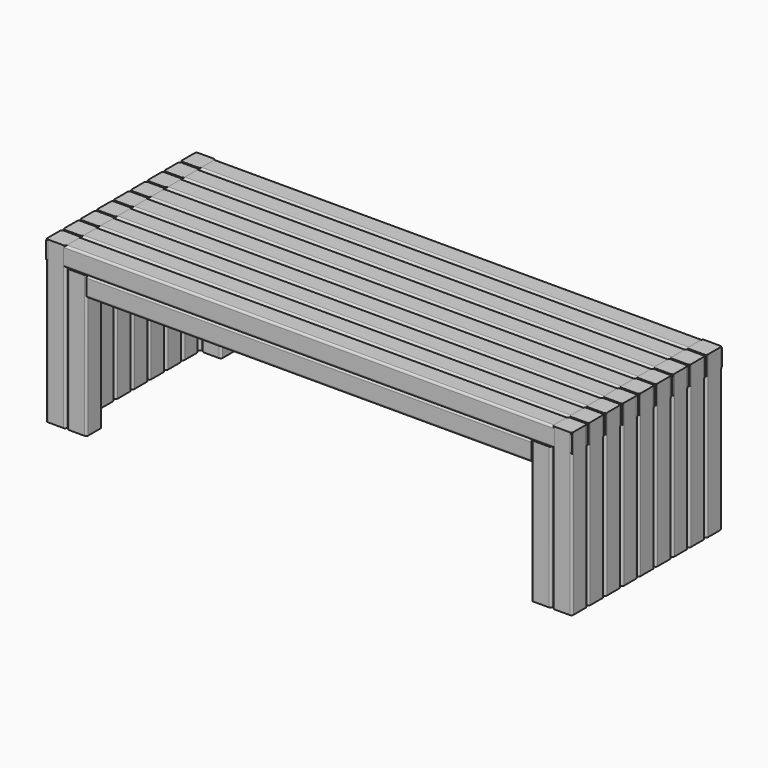
from build123d import *

# Parameters (mm, degrees)
F1_DEPTH      = 1300
F3_DEPTH      = 48
F3_DEPTH_BACK = 350
F5_DEPTH      = 350
F8_DEPTH      = 1100


with BuildPart() as f1:
    # F0 (on Right) → F1 (new body)
    with BuildSketch(Plane.YZ):
        with BuildLine():
            ThreePointArc((0, 5), (1.4644660941, 1.4644660941), (5, 0))
            Line((5, 0), (43, 0))
            ThreePointArc((43, 0), (46.5355339059, 1.4644660941), (48, 5))
            Line((48, 5), (48, 43))
            ThreePointArc((48, 43), (46.5355339059, 46.5355339059), (43, 48))
            Line((43, 48), (5, 48))
            ThreePointArc((5, 48), (1.4644660941, 46.5355339059), (0, 43))
            Line((0, 43), (0, 5))
        make_face()
    extrude(amount=F1_DEPTH)


with BuildPart() as f1b:
    # F0 (on Right) → F1, piece 2 (new body)
    with BuildSketch(Plane.YZ):
        with BuildLine():
            ThreePointArc((95, 0), (98.5355339059, 1.4644660941), (100, 5))
            Line((100, 5), (100, 43))
            ThreePointArc((100, 43), (98.5355339059, 46.5355339059), (95, 48))
            Line((95, 48), (57, 48))
            ThreePointArc((57, 48), (53.4644660941, 46.5355339059), (52, 43))
            Line((52, 43), (52, 5))
            ThreePointArc((52, 5), (53.4644660941, 1.4644660941), (57, 0))
            Line((57, 0), (95, 0))
        make_face()
    extrude(amount=F1_DEPTH)


with BuildPart() as f1c:
    # F0 (on Right) → F1, piece 3 (new body)
    with BuildSketch(Plane.YZ):
        with BuildLine():
            ThreePointArc((147, 0), (150.5355339059, 1.4644660941), (152, 5))
            Line((152, 5), (152, 43))
            ThreePointArc((152, 43), (150.5355339059, 46.5355339059), (147, 48))
            Line((147, 48), (109, 48))
            ThreePointArc((109, 48), (105.4644660941, 46.5355339059), (104, 43))
            Line((104, 43), (104, 5))
            ThreePointArc((104, 5), (105.4644660941, 1.4644660941), (109, 0))
            Line((109, 0), (147, 0))
        make_face()
    extrude(amount=F1_DEPTH)


with BuildPart() as f1d:
    # F0 (on Right) → F1, piece 4 (new body)
    with BuildSketch(Plane.YZ):
        with BuildLine():
            ThreePointArc((199, 0), (202.5355339059, 1.4644660941), (204, 5))
            Line((204, 5), (204, 43))
            ThreePointArc((204, 43), (202.5355339059, 46.5355339059), (199, 48))
            Line((199, 48), (161, 48))
            ThreePointArc((161, 48), (157.4644660941, 46.5355339059), (156, 43))
            Line((156, 43), (156, 5))
            ThreePointArc((156, 5), (157.4644660941, 1.4644660941), (161, 0))
            Line((161, 0), (199, 0))
        make_face()
    extrude(amount=F1_DEPTH)


with BuildPart() as f1e:
    # F0 (on Right) → F1, piece 5 (new body)
    with BuildSketch(Plane.YZ):
        with BuildLine():
            ThreePointArc((251, 0), (254.5355339059, 1.4644660941), (256, 5))
            Line((256, 5), (256, 43))
            ThreePointArc((256, 43), (254.5355339059, 46.5355339059), (251, 48))
            Line((251, 48), (213, 48))
            ThreePointArc((213, 48), (209.4644660941, 46.5355339059), (208, 43))
            Line((208, 43), (208, 5))
            ThreePointArc((208, 5), (209.4644660941, 1.4644660941), (213, 0))
            Line((213, 0), (251, 0))
        make_face()
    extrude(amount=F1_DEPTH)


with BuildPart() as f1f:
    # F0 (on Right) → F1, piece 6 (new body)
    with BuildSketch(Plane.YZ):
        with BuildLine():
            ThreePointArc((303, 0), (306.5355339059, 1.4644660941), (308, 5))
            Line((308, 5), (308, 43))
            ThreePointArc((308, 43), (306.5355339059, 46.5355339059), (303, 48))
            Line((303, 48), (265, 48))
            ThreePointArc((265, 48), (261.4644660941, 46.5355339059), (260, 43))
            Line((260, 43), (260, 5))
            ThreePointArc((260, 5), (261.4644660941, 1.4644660941), (265, 0))
            Line((265, 0), (303, 0))
        make_face()
    extrude(amount=F1_DEPTH)


with BuildPart() as f1g:
    # F0 (on Right) → F1, piece 7 (new body)
    with BuildSketch(Plane.YZ):
        with BuildLine():
            ThreePointArc((355, 0), (358.5355339059, 1.4644660941), (360, 5))
            Line((360, 5), (360, 43))
            ThreePointArc((360, 43), (358.5355339059, 46.5355339059), (355, 48))
            Line((355, 48), (317, 48))
            ThreePointArc((317, 48), (313.4644660941, 46.5355339059), (312, 43))
            Line((312, 43), (312, 5))
            ThreePointArc((312, 5), (313.4644660941, 1.4644660941), (317, 0))
            Line((317, 0), (355, 0))
        make_face()
    extrude(amount=F1_DEPTH)


with BuildPart() as f1h:
    # F0 (on Right) → F1, piece 8 (new body)
    with BuildSketch(Plane.YZ):
        with BuildLine():
            ThreePointArc((407, 0), (410.5355339059, 1.4644660941), (412, 5))
            Line((412, 5), (412, 43))
            ThreePointArc((412, 43), (410.5355339059, 46.5355339059), (407, 48))
            Line((407, 48), (369, 48))
            ThreePointArc((369, 48), (365.4644660941, 46.5355339059), (364, 43))
            Line((364, 43), (364, 5))
            ThreePointArc((364, 5), (365.4644660941, 1.4644660941), (369, 0))
            Line((369, 0), (407, 0))
        make_face()
    extrude(amount=F1_DEPTH)


with BuildPart() as f1i:
    # F0 (on Right) → F1, piece 9 (new body)
    with BuildSketch(Plane.YZ):
        with BuildLine():
            ThreePointArc((459, 0), (462.5355339059, 1.4644660941), (464, 5))
            Line((464, 5), (464, 43))
            ThreePointArc((464, 43), (462.5355339059, 46.5355339059), (459, 48))
            Line((459, 48), (421, 48))
            ThreePointArc((421, 48), (417.4644660941, 46.5355339059), (416, 43))
            Line((416, 43), (416, 5))
            ThreePointArc((416, 5), (417.4644660941, 1.4644660941), (421, 0))
            Line((421, 0), (459, 0))
        make_face()
    extrude(amount=F1_DEPTH)


with BuildPart() as f3:
    # F2 (on Top) → F3 (new body, two sides)
    with BuildSketch(Plane.XY) as f3_sk:
        with BuildLine():
            ThreePointArc((0, 5), (1.4644660941, 1.4644660941), (5, 0))
            Line((5, 0), (43, 0))
            ThreePointArc((43, 0), (46.5355339059, 1.4644660941), (48, 5))
            Line((48, 5), (48, 43))
            ThreePointArc((48, 43), (46.5355339059, 46.5355339059), (43, 48))
            Line((43, 48), (5, 48))
            ThreePointArc((5, 48), (1.4644660941, 46.5355339059), (0, 43))
            Line((0, 43), (0, 5))
        make_face()
    extrude(amount=F3_DEPTH)
    extrude(f3_sk.sketch, amount=-F3_DEPTH_BACK)


with BuildPart() as f3b:
    # F2 (on Top) → F3, piece 2 (new body, two sides)
    with BuildSketch(Plane.XY) as f3_2_sk:
        with BuildLine():
            ThreePointArc((0, 57), (1.4644660941, 53.4644660941), (5, 52))
            Line((5, 52), (43, 52))
            ThreePointArc((43, 52), (46.5355339059, 53.4644660941), (48, 57))
            Line((48, 57), (48, 95))
            ThreePointArc((48, 95), (46.5355339059, 98.5355339059), (43, 100))
            Line((43, 100), (5, 100))
            ThreePointArc((5, 100), (1.4644660941, 98.5355339059), (0, 95))
            Line((0, 95), (0, 57))
        make_face()
    extrude(amount=F3_DEPTH)
    extrude(f3_2_sk.sketch, amount=-F3_DEPTH_BACK)


with BuildPart() as f3c:
    # F2 (on Top) → F3, piece 3 (new body, two sides)
    with BuildSketch(Plane.XY) as f3_3_sk:
        with BuildLine():
            ThreePointArc((0, 109), (1.4644660941, 105.4644660941), (5, 104))
            Line((5, 104), (43, 104))
            ThreePointArc((43, 104), (46.5355339059, 105.4644660941), (48, 109))
            Line((48, 109), (48, 147))
            ThreePointArc((48, 147), (46.5355339059, 150.5355339059), (43, 152))
            Line((43, 152), (5, 152))
            ThreePointArc((5, 152), (1.4644660941, 150.5355339059), (0, 147))
            Line((0, 147), (0, 109))
        make_face()
    extrude(amount=F3_DEPTH)
    extrude(f3_3_sk.sketch, amount=-F3_DEPTH_BACK)


with BuildPart() as f3d:
    # F2 (on Top) → F3, piece 4 (new body, two sides)
    with BuildSketch(Plane.XY) as f3_4_sk:
        with BuildLine():
            ThreePointArc((0, 161), (1.4644660941, 157.4644660941), (5, 156))
            Line((5, 156), (43, 156))
            ThreePointArc((43, 156), (46.5355339059, 157.4644660941), (48, 161))
            Line((48, 161), (48, 199))
            ThreePointArc((48, 199), (46.5355339059, 202.5355339059), (43, 204))
            Line((43, 204), (5, 204))
            ThreePointArc((5, 204), (1.4644660941, 202.5355339059), (0, 199))
            Line((0, 199), (0, 161))
        make_face()
    extrude(amount=F3_DEPTH)
    extrude(f3_4_sk.sketch, amount=-F3_DEPTH_BACK)


with BuildPart() as f3e:
    # F2 (on Top) → F3, piece 5 (new body, two sides)
    with BuildSketch(Plane.XY) as f3_5_sk:
        with BuildLine():
            ThreePointArc((0, 213), (1.4644660941, 209.4644660941), (5, 208))
            Line((5, 208), (43, 208))
            ThreePointArc((43, 208), (46.5355339059, 209.4644660941), (48, 213))
            Line((48, 213), (48, 251))
            ThreePointArc((48, 251), (46.5355339059, 254.5355339059), (43, 256))
            Line((43, 256), (5, 256))
            ThreePointArc((5, 256), (1.4644660941, 254.5355339059), (0, 251))
            Line((0, 251), (0, 213))
        make_face()
    extrude(amount=F3_DEPTH)
    extrude(f3_5_sk.sketch, amount=-F3_DEPTH_BACK)


with BuildPart() as f3f:
    # F2 (on Top) → F3, piece 6 (new body, two sides)
    with BuildSketch(Plane.XY) as f3_6_sk:
        with BuildLine():
            ThreePointArc((0, 265), (1.4644660941, 261.4644660941), (5, 260))
            Line((5, 260), (43, 260))
            ThreePointArc((43, 260), (46.5355339059, 261.4644660941), (48, 265))
            Line((48, 265), (48, 303))
            ThreePointArc((48, 303), (46.5355339059, 306.5355339059), (43, 308))
            Line((43, 308), (5, 308))
            ThreePointArc((5, 308), (1.4644660941, 306.5355339059), (0, 303))
            Line((0, 303), (0, 265))
        make_face()
    extrude(amount=F3_DEPTH)
    extrude(f3_6_sk.sketch, amount=-F3_DEPTH_BACK)


with BuildPart() as f3g:
    # F2 (on Top) → F3, piece 7 (new body, two sides)
    with BuildSketch(Plane.XY) as f3_7_sk:
        with BuildLine():
            ThreePointArc((0, 317), (1.4644660941, 313.4644660941), (5, 312))
            Line((5, 312), (43, 312))
            ThreePointArc((43, 312), (46.5355339059, 313.4644660941), (48, 317))
            Line((48, 317), (48, 355))
            ThreePointArc((48, 355), (46.5355339059, 358.5355339059), (43, 360))
            Line((43, 360), (5, 360))
            ThreePointArc((5, 360), (1.4644660941, 358.5355339059), (0, 355))
            Line((0, 355), (0, 317))
        make_face()
    extrude(amount=F3_DEPTH)
    extrude(f3_7_sk.sketch, amount=-F3_DEPTH_BACK)


with BuildPart() as f3h:
    # F2 (on Top) → F3, piece 8 (new body, two sides)
    with BuildSketch(Plane.XY) as f3_8_sk:
        with BuildLine():
            ThreePointArc((0, 369), (1.4644660941, 365.4644660941), (5, 364))
            Line((5, 364), (43, 364))
            ThreePointArc((43, 364), (46.5355339059, 365.4644660941), (48, 369))
            Line((48, 369), (48, 407))
            ThreePointArc((48, 407), (46.5355339059, 410.5355339059), (43, 412))
            Line((43, 412), (5, 412))
            ThreePointArc((5, 412), (1.4644660941, 410.5355339059), (0, 407))
            Line((0, 407), (0, 369))
        make_face()
    extrude(amount=F3_DEPTH)
    extrude(f3_8_sk.sketch, amount=-F3_DEPTH_BACK)


with BuildPart() as f3i:
    # F2 (on Top) → F3, piece 9 (new body, two sides)
    with BuildSketch(Plane.XY) as f3_9_sk:
        with BuildLine():
            ThreePointArc((0, 421), (1.4644660941, 417.4644660941), (5, 416))
            Line((5, 416), (43, 416))
            ThreePointArc((43, 416), (46.5355339059, 417.4644660941), (48, 421))
            Line((48, 421), (48, 459))
            ThreePointArc((48, 459), (46.5355339059, 462.5355339059), (43, 464))
            Line((43, 464), (5, 464))
            ThreePointArc((5, 464), (1.4644660941, 462.5355339059), (0, 459))
            Line((0, 459), (0, 421))
        make_face()
    extrude(amount=F3_DEPTH)
    extrude(f3_9_sk.sketch, amount=-F3_DEPTH_BACK)


with BuildPart() as f3j:
    # F2 (on Top) → F3, piece 10 (new body, two sides)
    with BuildSketch(Plane.XY) as f3_10_sk:
        with BuildLine():
            ThreePointArc((1252, 5), (1253.4644660941, 1.4644660941), (1257, 0))
            Line((1257, 0), (1295, 0))
            ThreePointArc((1295, 0), (1298.5355339059, 1.4644660941), (1300, 5))
            Line((1300, 5), (1300, 43))
            ThreePointArc((1300, 43), (1298.5355339059, 46.5355339059), (1295, 48))
            Line((1295, 48), (1257, 48))
            ThreePointArc((1257, 48), (1253.4644660941, 46.5355339059), (1252, 43))
            Line((1252, 43), (1252, 5))
        make_face()
    extrude(amount=F3_DEPTH)
    extrude(f3_10_sk.sketch, amount=-F3_DEPTH_BACK)


with BuildPart() as f3k:
    # F2 (on Top) → F3, piece 11 (new body, two sides)
    with BuildSketch(Plane.XY) as f3_11_sk:
        with BuildLine():
            ThreePointArc((1252, 57), (1253.4644660941, 53.4644660941), (1257, 52))
            Line((1257, 52), (1295, 52))
            ThreePointArc((1295, 52), (1298.5355339059, 53.4644660941), (1300, 57))
            Line((1300, 57), (1300, 95))
            ThreePointArc((1300, 95), (1298.5355339059, 98.5355339059), (1295, 100))
            Line((1295, 100), (1257, 100))
            ThreePointArc((1257, 100), (1253.4644660941, 98.5355339059), (1252, 95))
            Line((1252, 95), (1252, 57))
        make_face()
    extrude(amount=F3_DEPTH)
    extrude(f3_11_sk.sketch, amount=-F3_DEPTH_BACK)


with BuildPart() as f3l:
    # F2 (on Top) → F3, piece 12 (new body, two sides)
    with BuildSketch(Plane.XY) as f3_12_sk:
        with BuildLine():
            ThreePointArc((1252, 109), (1253.4644660941, 105.4644660941), (1257, 104))
            Line((1257, 104), (1295, 104))
            ThreePointArc((1295, 104), (1298.5355339059, 105.4644660941), (1300, 109))
            Line((1300, 109), (1300, 147))
            ThreePointArc((1300, 147), (1298.5355339059, 150.5355339059), (1295, 152))
            Line((1295, 152), (1257, 152))
            ThreePointArc((1257, 152), (1253.4644660941, 150.5355339059), (1252, 147))
            Line((1252, 147), (1252, 109))
        make_face()
    extrude(amount=F3_DEPTH)
    extrude(f3_12_sk.sketch, amount=-F3_DEPTH_BACK)


with BuildPart() as f3m:
    # F2 (on Top) → F3, piece 13 (new body, two sides)
    with BuildSketch(Plane.XY) as f3_13_sk:
        with BuildLine():
            ThreePointArc((1252, 161), (1253.4644660941, 157.4644660941), (1257, 156))
            Line((1257, 156), (1295, 156))
            ThreePointArc((1295, 156), (1298.5355339059, 157.4644660941), (1300, 161))
            Line((1300, 161), (1300, 199))
            ThreePointArc((1300, 199), (1298.5355339059, 202.5355339059), (1295, 204))
            Line((1295, 204), (1257, 204))
            ThreePointArc((1257, 204), (1253.4644660941, 202.5355339059), (1252, 199))
            Line((1252, 199), (1252, 161))
        make_face()
    extrude(amount=F3_DEPTH)
    extrude(f3_13_sk.sketch, amount=-F3_DEPTH_BACK)


with BuildPart() as f3n:
    # F2 (on Top) → F3, piece 14 (new body, two sides)
    with BuildSketch(Plane.XY) as f3_14_sk:
        with BuildLine():
            ThreePointArc((1252, 213), (1253.4644660941, 209.4644660941), (1257, 208))
            Line((1257, 208), (1295, 208))
            ThreePointArc((1295, 208), (1298.5355339059, 209.4644660941), (1300, 213))
            Line((1300, 213), (1300, 251))
            ThreePointArc((1300, 251), (1298.5355339059, 254.5355339059), (1295, 256))
            Line((1295, 256), (1257, 256))
            ThreePointArc((1257, 256), (1253.4644660941, 254.5355339059), (1252, 251))
            Line((1252, 251), (1252, 213))
        make_face()
    extrude(amount=F3_DEPTH)
    extrude(f3_14_sk.sketch, amount=-F3_DEPTH_BACK)


with BuildPart() as f3o:
    # F2 (on Top) → F3, piece 15 (new body, two sides)
    with BuildSketch(Plane.XY) as f3_15_sk:
        with BuildLine():
            ThreePointArc((1252, 265), (1253.4644660941, 261.4644660941), (1257, 260))
            Line((1257, 260), (1295, 260))
            ThreePointArc((1295, 260), (1298.5355339059, 261.4644660941), (1300, 265))
            Line((1300, 265), (1300, 303))
            ThreePointArc((1300, 303), (1298.5355339059, 306.5355339059), (1295, 308))
            Line((1295, 308), (1257, 308))
            ThreePointArc((1257, 308), (1253.4644660941, 306.5355339059), (1252, 303))
            Line((1252, 303), (1252, 265))
        make_face()
    extrude(amount=F3_DEPTH)
    extrude(f3_15_sk.sketch, amount=-F3_DEPTH_BACK)


with BuildPart() as f3p:
    # F2 (on Top) → F3, piece 16 (new body, two sides)
    with BuildSketch(Plane.XY) as f3_16_sk:
        with BuildLine():
            ThreePointArc((1252, 317), (1253.4644660941, 313.4644660941), (1257, 312))
            Line((1257, 312), (1295, 312))
            ThreePointArc((1295, 312), (1298.5355339059, 313.4644660941), (1300, 317))
            Line((1300, 317), (1300, 355))
            ThreePointArc((1300, 355), (1298.5355339059, 358.5355339059), (1295, 360))
            Line((1295, 360), (1257, 360))
            ThreePointArc((1257, 360), (1253.4644660941, 358.5355339059), (1252, 355))
            Line((1252, 355), (1252, 317))
        make_face()
    extrude(amount=F3_DEPTH)
    extrude(f3_16_sk.sketch, amount=-F3_DEPTH_BACK)


with BuildPart() as f3q:
    # F2 (on Top) → F3, piece 17 (new body, two sides)
    with BuildSketch(Plane.XY) as f3_17_sk:
        with BuildLine():
            ThreePointArc((1252, 369), (1253.4644660941, 365.4644660941), (1257, 364))
            Line((1257, 364), (1295, 364))
            ThreePointArc((1295, 364), (1298.5355339059, 365.4644660941), (1300, 369))
            Line((1300, 369), (1300, 407))
            ThreePointArc((1300, 407), (1298.5355339059, 410.5355339059), (1295, 412))
            Line((1295, 412), (1257, 412))
            ThreePointArc((1257, 412), (1253.4644660941, 410.5355339059), (1252, 407))
            Line((1252, 407), (1252, 369))
        make_face()
    extrude(amount=F3_DEPTH)
    extrude(f3_17_sk.sketch, amount=-F3_DEPTH_BACK)


with BuildPart() as f3r:
    # F2 (on Top) → F3, piece 18 (new body, two sides)
    with BuildSketch(Plane.XY) as f3_18_sk:
        with BuildLine():
            ThreePointArc((1252, 421), (1253.4644660941, 417.4644660941), (1257, 416))
            Line((1257, 416), (1295, 416))
            ThreePointArc((1295, 416), (1298.5355339059, 417.4644660941), (1300, 421))
            Line((1300, 421), (1300, 459))
            ThreePointArc((1300, 459), (1298.5355339059, 462.5355339059), (1295, 464))
            Line((1295, 464), (1257, 464))
            ThreePointArc((1257, 464), (1253.4644660941, 462.5355339059), (1252, 459))
            Line((1252, 459), (1252, 421))
        make_face()
    extrude(amount=F3_DEPTH)
    extrude(f3_18_sk.sketch, amount=-F3_DEPTH_BACK)


with BuildPart() as f5:
    # F4 (on Top) → F5 (new body)
    with BuildSketch(Plane.XY):
        with BuildLine():
            ThreePointArc((52, 5), (53.4644660941, 1.4644660941), (57, 0))
            Line((57, 0), (95, 0))
            ThreePointArc((95, 0), (98.5355339059, 1.4644660941), (100, 5))
            Line((100, 5), (100, 43))
            ThreePointArc((100, 43), (98.5355339059, 46.5355339059), (95, 48))
            Line((95, 48), (57, 48))
            ThreePointArc((57, 48), (53.4644660941, 46.5355339059), (52, 43))
            Line((52, 43), (52, 5))
        make_face()
    extrude(amount=-F5_DEPTH)


with BuildPart() as f5b:
    # F4 (on Top) → F5, piece 2 (new body)
    with BuildSketch(Plane.XY):
        with BuildLine():
            Line((95, 464), (57, 464))
            ThreePointArc((57, 464), (53.4644660941, 462.5355339059), (52, 459))
            Line((52, 459), (52, 421))
            ThreePointArc((52, 421), (53.4644660941, 417.4644660941), (57, 416))
            Line((57, 416), (95, 416))
            ThreePointArc((95, 416), (98.5355339059, 417.4644660941), (100, 421))
            Line((100, 421), (100, 459))
            ThreePointArc((100, 459), (98.5355339059, 462.5355339059), (95, 464))
        make_face()
    extrude(amount=-F5_DEPTH)


with BuildPart() as f5c:
    # F4 (on Top) → F5, piece 3 (new body)
    with BuildSketch(Plane.XY):
        with BuildLine():
            Line((1243, 48), (1205, 48))
            ThreePointArc((1205, 48), (1201.4644660941, 46.5355339059), (1200, 43))
            Line((1200, 43), (1200, 5))
            ThreePointArc((1200, 5), (1201.4644660941, 1.4644660941), (1205, 0))
            Line((1205, 0), (1243, 0))
            ThreePointArc((1243, 0), (1246.5355339059, 1.4644660941), (1248, 5))
            Line((1248, 5), (1248, 43))
            ThreePointArc((1248, 43), (1246.5355339059, 46.5355339059), (1243, 48))
        make_face()
    extrude(amount=-F5_DEPTH)


with BuildPart() as f5d:
    # F4 (on Top) → F5, piece 4 (new body)
    with BuildSketch(Plane.XY):
        with BuildLine():
            Line((1243, 464), (1205, 464))
            ThreePointArc((1205, 464), (1201.4644660941, 462.5355339059), (1200, 459))
            Line((1200, 459), (1200, 421))
            ThreePointArc((1200, 421), (1201.4644660941, 417.4644660941), (1205, 416))
            Line((1205, 416), (1243, 416))
            ThreePointArc((1243, 416), (1246.5355339059, 417.4644660941), (1248, 421))
            Line((1248, 421), (1248, 459))
            ThreePointArc((1248, 459), (1246.5355339059, 462.5355339059), (1243, 464))
        make_face()
    extrude(amount=-F5_DEPTH)


with BuildPart() as f8:
    # F7 (on offset) → F8 (new body)
    with BuildSketch(Plane.YZ.offset(100)):
        with BuildLine():
            Line((43, 0), (5, 0))
            ThreePointArc((5, 0), (1.4644660941, -1.4644660941), (0, -5))
            Line((0, -5), (0, -43))
            ThreePointArc((0, -43), (1.4644660941, -46.5355339059), (5, -48))
            Line((5, -48), (43, -48))
            ThreePointArc((43, -48), (46.5355339059, -46.5355339059), (48, -43))
            Line((48, -43), (48, -5))
            ThreePointArc((48, -5), (46.5355339059, -1.4644660941), (43, 0))
        make_face()
    extrude(amount=F8_DEPTH)


with BuildPart() as f8b:
    # F7 (on offset) → F8, piece 2 (new body)
    with BuildSketch(Plane.YZ.offset(100)):
        with BuildLine():
            Line((459, 0), (421, 0))
            ThreePointArc((421, 0), (417.4644660941, -1.4644660941), (416, -5))
            Line((416, -5), (416, -43))
            ThreePointArc((416, -43), (417.4644660941, -46.5355339059), (421, -48))
            Line((421, -48), (459, -48))
            ThreePointArc((459, -48), (462.5355339059, -46.5355339059), (464, -43))
            Line((464, -43), (464, -5))
            ThreePointArc((464, -5), (462.5355339059, -1.4644660941), (459, 0))
        make_face()
    extrude(amount=F8_DEPTH)


solid = Compound([f1.part, f1b.part, f1c.part, f1d.part, f1e.part, f1f.part, f1g.part, f1h.part, f1i.part, f3.part, f3b.part, f3c.part, f3d.part, f3e.part, f3f.part, f3g.part, f3h.part, f3i.part, f3j.part, f3k.part, f3l.part, f3m.part, f3n.part, f3o.part, f3p.part, f3q.part, f3r.part, f5.part, f5b.part, f5c.part, f5d.part, f8.part, f8b.part])
